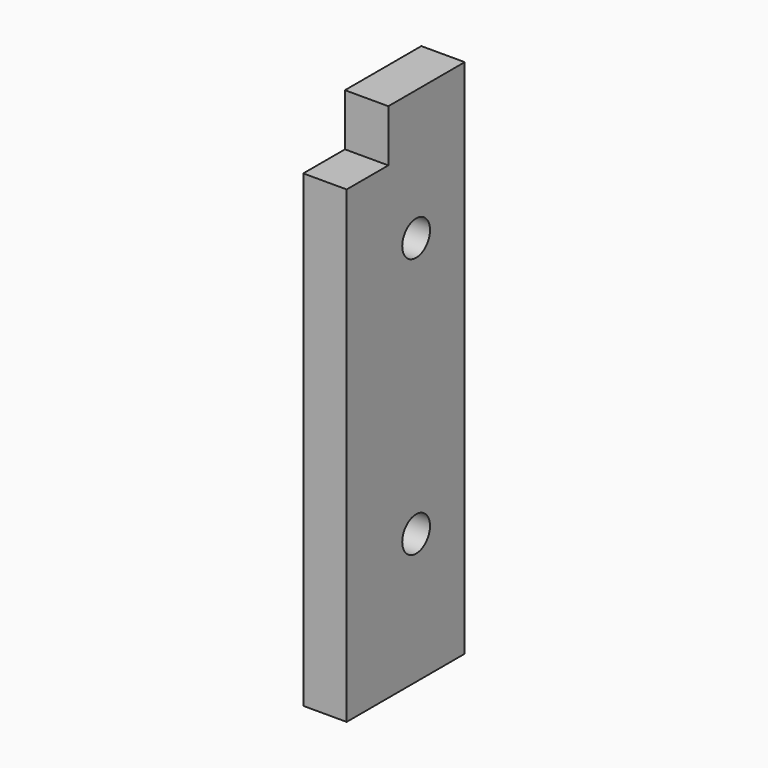
from build123d import *

# Parameters (mm, degrees)
CIRCLE004_R      = 2
EXTRUDE090_DEPTH = 5
CIRCLE006_R      = 2
EXTRUDE091_DEPTH = 5
RECTANGLE063_W   = 6
RECTANGLE063_H   = 6
EXTRUDE077_DEPTH = 7.5
RECTANGLE003_W   = 17
RECTANGLE003_H   = 60
EXTRUDE002_DEPTH = 5


with BuildPart() as extrude090:
    # Circle004 → Extrude090 (new body)
    with BuildSketch(Plane(origin=(-140, 10, 55), x_dir=(0, -1, 0), z_dir=(-1, 0, 0))):
        Circle(CIRCLE004_R)
    extrude(amount=-EXTRUDE090_DEPTH)


with BuildPart() as extrude091:
    # Circle006 → Extrude091 (new body)
    with BuildSketch(Plane(origin=(-140, 10, 25), x_dir=(0, -1, 0), z_dir=(-1, 0, 0))):
        Circle(CIRCLE006_R)
    extrude(amount=-EXTRUDE091_DEPTH)


with BuildPart() as extrude077:
    # Rectangle063 → Extrude077 (new body)
    with BuildSketch(Plane(origin=(-250, 6, 64), x_dir=(0, -1, 0), z_dir=(-1, 0, 0))):
        with Locations((3, 3)):
            Rectangle(RECTANGLE063_W, RECTANGLE063_H)
    extrude(amount=-EXTRUDE077_DEPTH)


with BuildPart() as extrude077_1:
    # Extrude077 placement: moved
    add(extrude077.part.moved(Location((110, 0, 0))))


with BuildPart() as cut009:
    # Rectangle003 → Extrude002 (new body)
    with BuildSketch(Plane(origin=(0, 0, 10), x_dir=(0, 1, 0), z_dir=(1, 0, 0))):
        with Locations((8.5, 30)):
            Rectangle(RECTANGLE003_W, RECTANGLE003_H)
    extrude(amount=EXTRUDE002_DEPTH)


with BuildPart() as cut009_1:
    # Extrude002 placement: moved
    add(cut009.part.moved(Location((-140, 0, 0))))

    # Cut: cut Extrude077
    add(extrude077_1.part, mode=Mode.SUBTRACT)

    # Cut008: cut Extrude091
    add(extrude091.part, mode=Mode.SUBTRACT)

    # Cut009: cut Extrude090
    add(extrude090.part, mode=Mode.SUBTRACT)


with BuildPart() as cut009_2:
    # Cut009 placement: moved
    add(cut009_1.part.moved(Location((-2.5, 0, 0))))


solid = cut009_2.part
